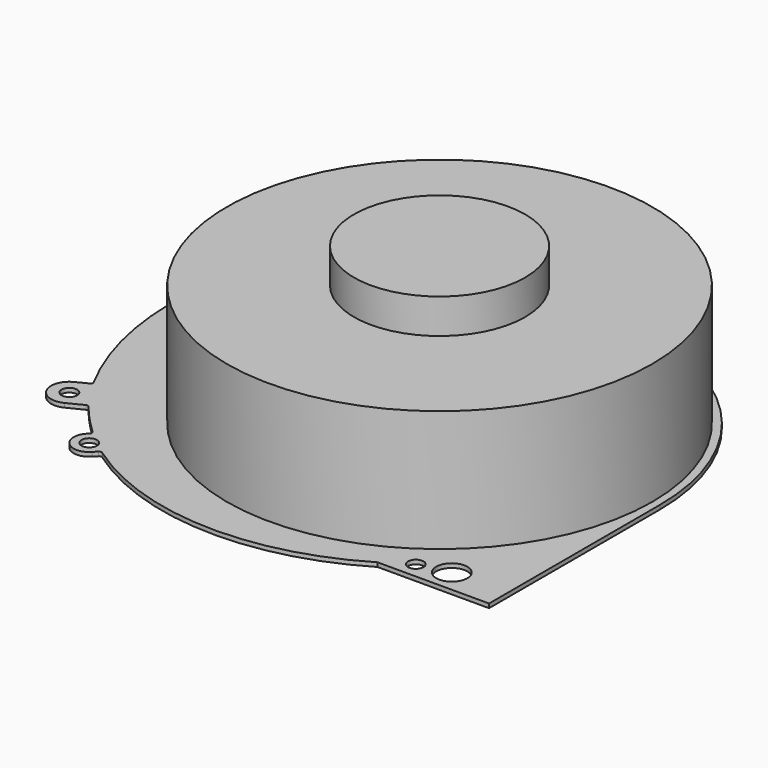
from build123d import *

# Parameters (mm, degrees)
SKETCH_R     = 1.5
SKETCH_R_2   = 3
PAD_DEPTH    = 0.8
SKETCH001_R  = 41
PAD001_DEPTH = 23.4
SKETCH002_R  = 16.5
PAD002_DEPTH = 6.7


with BuildPart() as mounting_plate:
    # Sketch → Pad (new body)
    with BuildSketch(Plane.XY):
        with BuildLine():
            Line((-21.5, 0), (0, 0))
            Line((0, 0), (0, 41.2))
            ThreePointArc((0, 41.2), (-16.745493, 75.007623), (-53.786135, 82.174055))
            ThreePointArc((-56.942142, 83.618987), (-55.627095, 82.322175), (-53.786135, 82.174055))
            Line((-56.942142, 83.618987), (-64.748761, 100.05969))
            ThreePointArc((-64.748761, 100.05969), (-69.411708, 101.72009), (-71.072108, 97.057144))
            Line((-70.857641, 96.605476), (-71.072108, 97.057144))
            ThreePointArc((-70.999961, 96.205795), (-70.846024, 96.37616), (-70.857641, 96.605476))
            ThreePointArc((-70.999961, 96.205795), (-73.697847, 94.322936), (-76.304983, 92.316299))
            ThreePointArc((-76.929687, 92.437729), (-76.642484, 92.247634), (-76.304983, 92.316299))
            Line((-76.929687, 92.437729), (-77.237243, 92.8937))
            ThreePointArc((-77.237243, 92.8937), (-81.1937, 93.662757), (-81.962757, 89.7063))
            Line((-81.962757, 89.7063), (-81.207847, 88.5871))
            ThreePointArc((-81.329277, 87.962396), (-81.139181, 88.249599), (-81.207847, 88.5871))
            ThreePointArc((-81.329277, 87.962396), (-97.885078, 55.23985), (-91.506499, 19.126511))
            ThreePointArc((-91.728525, 18.455165), (-91.478472, 18.744855), (-91.506499, 19.126511))
            Line((-93.872616, 17.3768), (-91.728525, 18.455165))
            ThreePointArc((-93.872616, 17.3768), (-95.4268, 12.677384), (-90.727384, 11.1232))
            Line((-90.727384, 11.1232), (-87.779258, 12.605953))
            ThreePointArc((-87.107913, 12.383927), (-87.397602, 12.63398), (-87.779258, 12.605953))
            ThreePointArc((-87.107913, 12.383927), (-84.434821, 9.310592), (-81.550456, 6.434615))
            ThreePointArc((-81.531946, 5.727751), (-81.394804, 6.085017), (-81.550456, 6.434615))
            Line((-81.876123, 5.365064), (-81.531946, 5.727751))
            ThreePointArc((-81.876123, 5.365064), (-81.765064, 1.123877), (-77.523877, 1.234936))
            Line((-76.835522, 1.960311), (-77.523877, 1.234936))
            ThreePointArc((-76.128658, 1.978821), (-76.485924, 2.115962), (-76.835522, 1.960311))
            ThreePointArc((-76.128658, 1.978821), (-49.107697, -7.109502), (-21.5, 0))
        make_face()
        with Locations((-67.910435, 98.558417)):
            Circle(SKETCH_R, mode=Mode.SUBTRACT)
        with Locations((-92.3, 14.25)):
            Circle(SKETCH_R, mode=Mode.SUBTRACT)
        with Locations((-79.7, 3.3)):
            Circle(SKETCH_R, mode=Mode.SUBTRACT)
        with Locations((-10.7, 4.4)):
            Circle(SKETCH_R_2, mode=Mode.SUBTRACT)
        with Locations((-16.6, 3.1)):
            Circle(SKETCH_R, mode=Mode.SUBTRACT)
        with BuildLine():
            ThreePointArc((-78.1, 91.55), (-79.6, 93.05), (-81.1, 91.55))
            Line((-81.1, 91.05), (-81.1, 91.55))
            ThreePointArc((-81.1, 91.05), (-79.6, 89.55), (-78.1, 91.05))
            Line((-78.1, 91.05), (-78.1, 91.55))
        make_face(mode=Mode.SUBTRACT)
        with BuildLine():
            ThreePointArc((-52.809386, 55.955221), (-59.578952, 46.884135), (-59.595393, 35.565506))
            Line((-59.595393, 35.565506), (-71.378833, 29.12925))
            ThreePointArc((-58.472435, 68.117863), (-72.214256, 51.036309), (-71.378833, 29.12925))
            Line((-58.472435, 68.117863), (-52.809386, 55.955221))
        make_face(mode=Mode.SUBTRACT)
        with BuildLine():
            ThreePointArc((-56.479525, 29.861002), (-49.086902, 24.448501), (-39.987661, 23.376191))
            Line((-39.987661, 23.376191), (-39.987661, 10.000991))
            ThreePointArc((-68.262965, 23.424746), (-55.923755, 12.924696), (-39.987661, 10.000991))
            Line((-68.262965, 23.424746), (-56.479525, 29.861002))
        make_face(mode=Mode.SUBTRACT)
        with BuildLine():
            ThreePointArc((-37.012317, 10.38482), (-32.388475, 11.578267), (-28, 13.461218))
            Line((-35.164273, 24.762631), (-28, 13.461218))
            ThreePointArc((-37.012317, 24.056916), (-36.078592, 24.384367), (-35.164273, 24.762631))
            Line((-37.012317, 10.38482), (-37.012317, 24.056916))
        make_face(mode=Mode.SUBTRACT)
        with BuildLine():
            ThreePointArc((-29.802304, 28.441924), (-26.666452, 49.761469), (-46.223229, 58.810723))
            Line((-46.223229, 58.810723), (-51.921241, 71.048454))
            ThreePointArc((-22.58335, 17.054254), (-14.997603, 56.143499), (-51.921241, 71.048454))
            Line((-22.58335, 17.054254), (-29.802304, 28.441924))
        make_face(mode=Mode.SUBTRACT)
    extrude(amount=PAD_DEPTH)


with BuildPart() as fan:
    # Sketch001 → Pad001 (new body)
    with BuildSketch(Plane.XY):
        with Locations((-42.5, 41.2)):
            Circle(SKETCH001_R)
    extrude(amount=PAD001_DEPTH)

    # Sketch002 (on Face3 of Pad001) → Pad002 (join)
    with BuildSketch(Plane.XY.offset(23.4)):
        with Locations((-42.5, 41.2)):
            Circle(SKETCH002_R)
    extrude(amount=PAD002_DEPTH)


with BuildPart() as fan_1:
    # Body001 placement: moved
    add(fan.part.moved(Location((0, 0, 0.8))))


solid = Compound([mounting_plate.part, fan_1.part])
